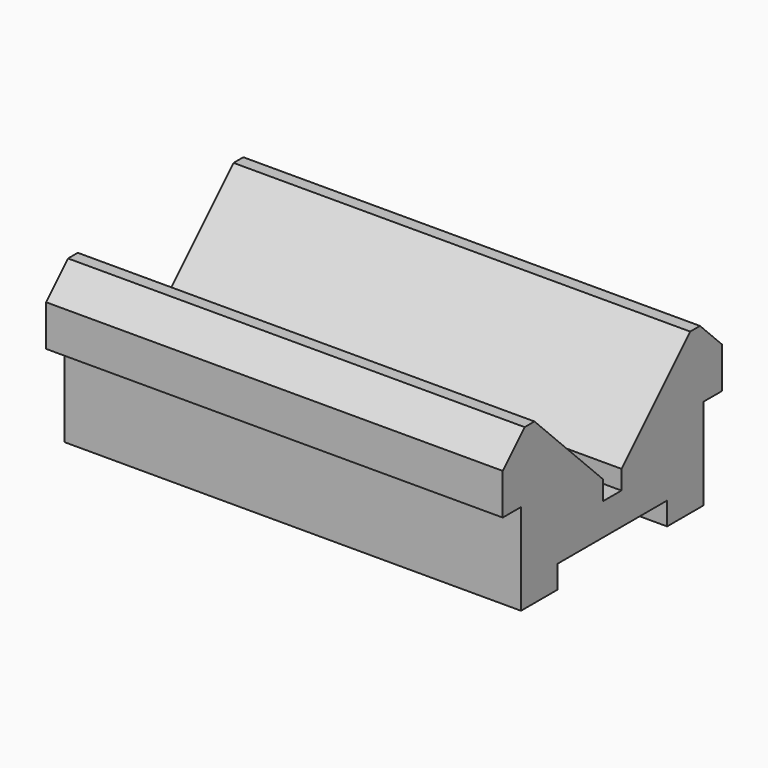
from build123d import *

# Parameters (mm, degrees)
F1_DEPTH = 100


with BuildPart() as f1:
    # F0 (on Right) → F1 (new body)
    with BuildSketch(Plane.YZ):
        Polygon((-33.50602, -30), (-18.50602, -30), (-3.50602, -30), (-3.50602, -35), (6.49398, -35), (6.49398, -15), (11.49398, -15), (11.49398, -6), (5.49398, 0), (2.810466, 0), (-16.00602, -18.816486), (-16.00602, -23), (-18.50602, -23), (-21.00602, -23), (-21.00602, -18.816486), (-39.822506, 0), (-42.50602, 0), (-48.50602, -6), (-48.50602, -15), (-43.50602, -15), (-43.50602, -35), (-33.50602, -35), align=None)
    extrude(amount=F1_DEPTH)


solid = f1.part
